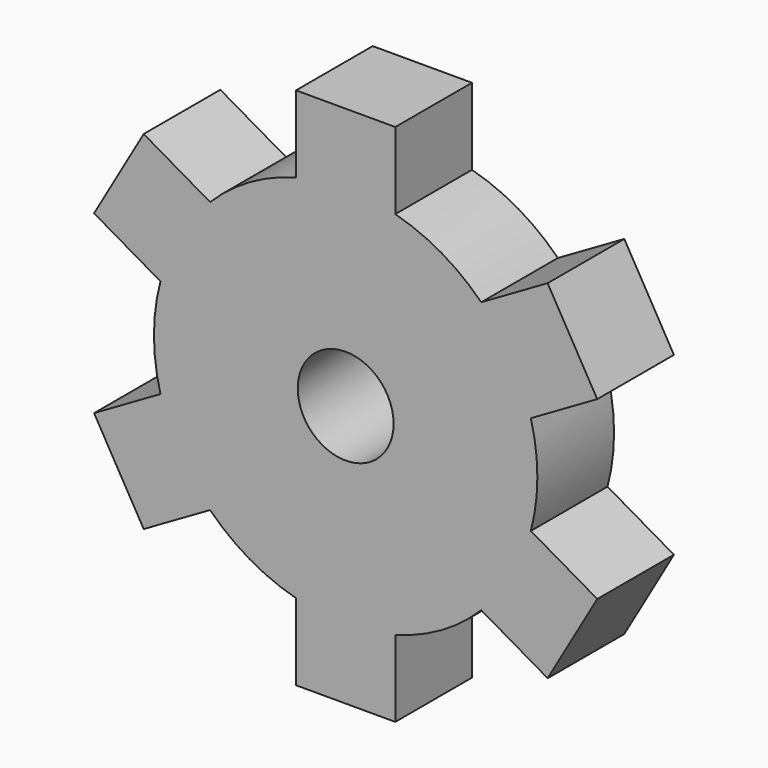
from build123d import *

# Parameters (mm, degrees)
F0_R     = 25.4
F1_DEPTH = 12.7
F3_DEPTH = 12.7
F5_DEPTH = 12.7
F6_COUNT = 6
F7_R     = 6.35
F8_DEPTH = 25.4


with BuildPart() as f1:
    # F0 (on Front) → F1 (new body)
    with BuildSketch(Plane.XZ):
        Circle(F0_R)
    extrude(amount=F1_DEPTH)

    # F2 (on face) → F3 (join)
    with BuildSketch(Plane.XZ.offset(12.7)):
        Polygon((-6.574004, 24.534516), (0, 0), (0, 24.534516), align=None)
        Polygon((0, 24.534516), (0, 0), (6.574004, 24.534516), align=None)
        Polygon((-6.574004, 24.534516), (0, 24.534516), (6.574004, 24.534516), (6.574004, 34.694515), (-6.574004, 34.694515), align=None)
    extrude(amount=-F3_DEPTH)

    # F2 (on face) → F5 (join)
    with BuildSketch(Plane.XZ.offset(12.7)):
        Polygon((-6.574004, 24.534516), (0, 0), (0, 24.534516), align=None)
        Polygon((0, 24.534516), (0, 0), (6.574004, 24.534516), align=None)
        Polygon((-6.574004, 24.534516), (0, 24.534516), (6.574004, 24.534516), (6.574004, 34.694515), (-6.574004, 34.694515), align=None)
    extrude(amount=-F5_DEPTH)

    # F6: F1 ×6 about axis
    f6_axis = Axis((0, -33.893697, 0), (0, 1, 0))


with BuildPart() as f1_1:
    add(f1.part)
    for i in range(1, F6_COUNT):
        add(f1.part.rotate(f6_axis, i * 360 / F6_COUNT))

    # F7 (on face) → F8 (cut)
    with BuildSketch(Plane.XZ.offset(12.7)):
        Circle(F7_R)
    extrude(amount=-F8_DEPTH, mode=Mode.SUBTRACT)


solid = f1_1.part
